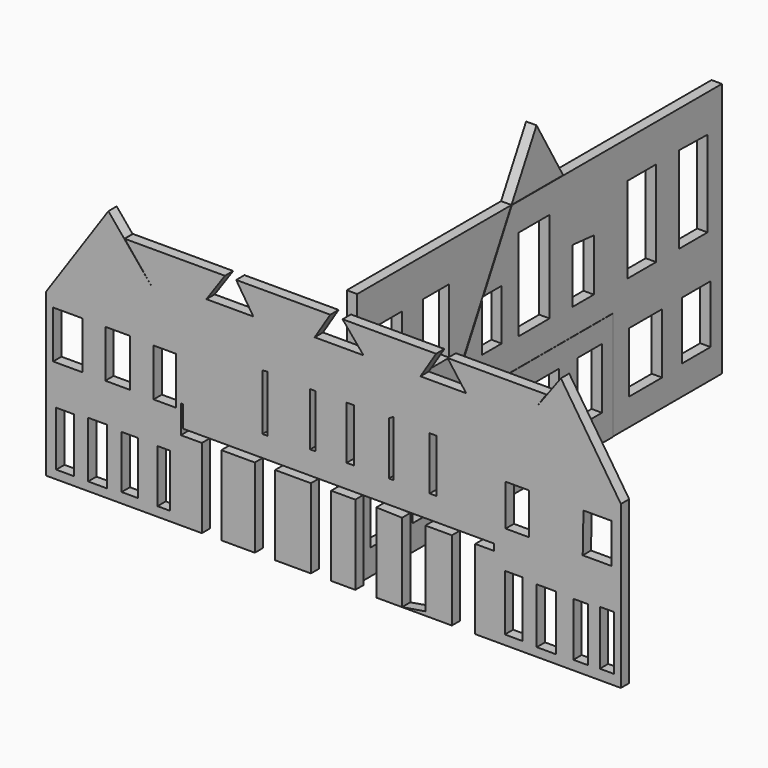
from build123d import *

# Parameters (mm, degrees)
F0_W     = 2.6429742575
F0_H     = 25.9491875768
F0_W_2   = 3.604053054
F0_W_3   = 3.3637844026
F4_DEPTH = 5.08
F3_W     = 11.0388994217
F3_H     = 23.2197735459
F3_W_2   = 14.4647806883
F3_W_3   = 12.1808722615
F3_W_4   = 8.7549835443
F3_H_2   = 26.6456417739
F3_W_5   = 9.1356486082
F3_H_3   = 27.4069467559
F3_W_6   = 7.9936981201
F3_H_4   = 25.884333998
F3_W_7   = 6.0904324055
F3_H_5   = 25.8843358606
F3_W_8   = 8.7549909949
F3_H_6   = 27.4069448933
F3_W_9   = 9.5162987709
F3_H_7   = 27.026292868
F3_W_10  = 7.2323828936
F3_H_8   = 26.264987886
F3_W_11  = 6.8517327309
F3_H_9   = 26.64563898
F3_W_12  = 10.2775990963
F3_H_10  = 38.8265051879
F3_W_13  = 11.419557035
F3_H_11  = 20.1745573431
F5_DEPTH = 5.08
F3_W_14  = 16.3680352271
F3_W_15  = 17.5099922344
F3_W_16  = 11.8002106901
F1_W     = 16.659591347
F1_H     = 31.6532291472
F1_W_2   = 16.1042734981
F6_DEPTH = 5.08
F1_W_3   = 14.9936303496
F1_H_2   = 29.6524465084
F1_W_4   = 16.6596025229
F1_W_5   = 14.9936378002
F2_W     = 13.5271744803
F2_H     = 27.4199559353
F2_W_2   = 17.5487734377
F2_W_3   = 19.011169672
F2_H_2   = 44.6031261235
F2_W_4   = 17.5487697124
F2_H_3   = 42.0439299196


with BuildPart() as f4:
    # F0 (on Front) → F4 (new body)
    with BuildSketch(Plane.XZ):
        Polygon((77.212639153, 0), (77.212639153, 37.3166874051), (101.6038423999, 72.4400269466), (53.3024363495, 72.4400269466), (62.3872019351, 60.2422244847), (40.0568917394, 60.2422244847), (47.6763012129, 72.4400269466), (1.9915847854, 72.4400269466), (12.2204730287, 60.2422244847), (-11.6393119097, 60.2422244847), (-4.0199024362, 72.4400269466), (-50.0156208355, 72.4400269466), (-41.6169911623, 59.4227127731), (-64.5590946078, 59.4227127731), (-55.5192948656, 72.4400269466), (-104.5110588974, 72.4400269466), (-75.8920386434, 37.3166874051), (-75.8920386434, 0), align=None)
        Polygon((-37.1389165521, 10.3316213936), (-37.1389165521, 37.7224311233), (-34.7362160683, 37.9627011716), (-34.7362160683, 10.3316213936), align=None, mode=Mode.SUBTRACT)
        with Locations((-12.5112151727, 24.2672972381)):
            Rectangle(F0_W, F0_H, mode=Mode.SUBTRACT)
        with Locations((5.7493259665, 24.2672972381)):
            Rectangle(F0_W_2, F0_H, mode=Mode.SUBTRACT)
        Polygon((24.6105398983, 11.2927034497), (24.6105398983, 37.2418910265), (26.772974059, 38.4432449937), (26.772974059, 11.2927034497), align=None, mode=Mode.SUBTRACT)
        with Locations((46.2348666042, 24.2672972381)):
            Rectangle(F0_W_3, F0_H, mode=Mode.SUBTRACT)
    extrude(amount=F4_DEPTH)

    # F3 (on Front) → F5 (join)
    with BuildSketch(Plane.XZ):
        Polygon((-112.4645769596, 81.7295238376), (-142.916738987, 37.1932424605), (-75.5413398147, 37.1932424605), (-104.8908060116, 72.5941494742), align=None)
        Polygon((-142.916738987, 0), (-77.0639330149, 0), (-77.0639330149, 10.5475988239), (-57.2700314224, 10.5475988239), (-57.2700314224, 37.1932424605), (-75.5413398147, 37.1932424605), (-142.916738987, 37.1932424605), align=None)
        with Locations((-84.8673060536, 19.4929214194)):
            Rectangle(F3_W, F3_H, mode=Mode.SUBTRACT)
        with Locations((-132.2584822774, 19.8735734448)):
            Rectangle(F3_W_2, F3_H, mode=Mode.SUBTRACT)
        with Locations((-107.8967563808, 19.8735734448)):
            Rectangle(F3_W_3, F3_H, mode=Mode.SUBTRACT)
        Polygon((-77.0639330149, -3.1558736227), (-77.0639330149, 0), (-142.916738987, 0), (-142.916738987, -41.9823788106), (-77.0639330149, -41.9823788106), align=None)
        with Locations((-133.5907652974, -24.4723875076)):
            Rectangle(F3_W_4, F3_H_2, mode=Mode.SUBTRACT)
        with Locations((-117.7937090397, -24.0917350166)):
            Rectangle(F3_W_5, F3_H_3, mode=Mode.SUBTRACT)
        with Locations((-101.996652782, -24.0917336196)):
            Rectangle(F3_W_6, F3_H_4, mode=Mode.SUBTRACT)
        with Locations((-85.4382812977, -24.4723865762)):
            Rectangle(F3_W_7, F3_H_5, mode=Mode.SUBTRACT)
        Polygon((138.0044519901, 37.1932424605), (108.6942479014, 81.7295238376), (101.9793557371, 72.5941494742), (75.9581699967, 37.1932424605), align=None)
        Polygon((138.0044519901, -41.9823788106), (138.0044519901, 0), (75.9581699967, 0), (75.9581699967, -3.1558736227), (75.9581699967, -41.9823788106), align=None)
        with Locations((85.6647975743, -23.7110820599)):
            Rectangle(F3_W_8, F3_H_6, mode=Mode.SUBTRACT)
        with Locations((101.6521826386, -24.2820619605)):
            Rectangle(F3_W_9, F3_H_7, mode=Mode.SUBTRACT)
        with Locations((118.4008717537, -24.2820605636)):
            Rectangle(F3_W_10, F3_H_8, mode=Mode.SUBTRACT)
        with Locations((131.1527192593, -23.7110811286)):
            Rectangle(F3_W_11, F3_H_9, mode=Mode.SUBTRACT)
        with Locations((-71.9251334667, -22.5691262167)):
            Rectangle(F3_W_12, F3_H_10)
        with Locations((71.3903456926, -22.5691262167)):
            Rectangle(F3_W_5, F3_H_10)
        Polygon((138.0044519901, 0), (138.0044519901, 37.1932424605), (75.9581699967, 37.1932424605), (75.9581699967, 10.5475988239), (75.9581699967, 0), align=None)
        with Locations((87.377730757, 18.3509653434)):
            Rectangle(F3_W_13, F3_H_11, mode=Mode.SUBTRACT)
        Polygon((119.352504611, 9.0249907225), (119.7331547737, 28.438244015), (133.4366202354, 28.438244015), (133.4366202354, 9.0249907225), align=None, mode=Mode.SUBTRACT)
    extrude(amount=F5_DEPTH)


with BuildPart() as f5:
    # F3 (on Front) → F5, piece 2 (new body)
    with BuildSketch(Plane.XZ):
        with Locations((-49.0860138088, -22.5691262167)):
            Rectangle(F3_W_14, F3_H_10)
    extrude(amount=F5_DEPTH)


with BuildPart() as f5b:
    # F3 (on Front) → F5, piece 3 (new body)
    with BuildSketch(Plane.XZ):
        with Locations((-22.2500474192, -22.5691262167)):
            Rectangle(F3_W_15, F3_H_10)
    extrude(amount=F5_DEPTH)


with BuildPart() as f5c:
    # F3 (on Front) → F5, piece 4 (new body)
    with BuildSketch(Plane.XZ):
        Polygon((18.4797160327, -41.9823788106), (31.041232869, -41.9823788106), (31.041232869, -3.5365254153), (18.4797160327, -3.1558736227), align=None)
    extrude(amount=F5_DEPTH)

    # F3 (on Front) → F5, piece 5 (join)
    with BuildSketch(Plane.XZ):
        Polygon((31.041232869, -41.9823788106), (55.4029606283, -41.9823788106), (55.4029606283, -3.1558736227), (42.4607954919, -3.1558736227), (42.4607954919, -40.0791205466), align=None)
    extrude(amount=F5_DEPTH)


with BuildPart() as f5d:
    # F3 (on Front) → F5, piece 6 (new body)
    with BuildSketch(Plane.XZ):
        with Locations((2.3020060034, -22.5691262167)):
            Rectangle(F3_W_16, F3_H_10)
    extrude(amount=F5_DEPTH)


with BuildPart() as f6:
    # F1 (on Right) → F6 (new body)
    with BuildSketch(Plane.YZ):
        Polygon((55.54414168, 82.220107317), (0, 82.220107317), (0, 10.3305839002), (65.6721889973, 10.3305839002), (65.6721889973, 29.766779393), (76.5488488376, 49.7302767479), (94.2501979091, 82.220107317), align=None)
        with Locations((19.0253145993, 47.8146728128)):
            Rectangle(F1_W, F1_H, mode=Mode.SUBTRACT)
        with Locations((48.1796078384, 47.8146728128)):
            Rectangle(F1_W_2, F1_H, mode=Mode.SUBTRACT)
    extrude(amount=F6_DEPTH)


with BuildPart() as f6b:
    # F1 (on Right) → F6, piece 2 (new body)
    with BuildSketch(Plane.YZ):
        Polygon((109.5424443483, 110.2881655097), (94.2501979091, 82.220107317), (125.8025629679, 82.220107317), align=None)
    extrude(amount=F6_DEPTH)


with BuildPart() as f6c:
    # F1 (on Right) → F6, piece 3 (new body)
    with BuildSketch(Plane.YZ):
        Polygon((156.1893224716, 10.3305839002), (65.6721889973, 10.3305839002), (65.6721889973, -42.7721068263), (141.7978554964, -42.7721068263), (156.1893224716, -42.7721068263), align=None)
        with Locations((84.8307199776, -14.8262232542)):
            Rectangle(F1_W_3, F1_H_2, mode=Mode.SUBTRACT)
        with Locations((115.0956526399, -14.8262232542)):
            Rectangle(F1_W_4, F1_H_2, mode=Mode.SUBTRACT)
        with Locations((142.0286744833, -14.8262232542)):
            Rectangle(F1_W_5, F1_H_2, mode=Mode.SUBTRACT)
    extrude(amount=F6_DEPTH)


with BuildPart() as f6d:
    # F2 (on Right) → F6, piece 4 (new body)
    with BuildSketch(Plane.YZ):
        Polygon((65.9739151597, 0), (65.9739151597, 10.407788679), (0, 10.407788679), (0, -42.6041260362), (65.9739151597, -42.6041260362), align=None)
        with Locations((14.9727999233, -16.4637670387)):
            Rectangle(F2_W, F2_H, mode=Mode.SUBTRACT)
        with Locations((42.5755549222, -16.4637670387)):
            Rectangle(F2_W_2, F2_H, mode=Mode.SUBTRACT)
    extrude(amount=F6_DEPTH)


with BuildPart() as f6e:
    # F2 (on Right) → F6, piece 5 (new body)
    with BuildSketch(Plane.YZ):
        Polygon((125.4289096646, 82.065269351), (94.4507836761, 82.065269351), (77.0482542035, 49.8925261199), (88.2754772902, 49.8925261199), (88.2754772902, 25.0317659229), (76.2106999755, 25.0317659229), (76.2106999755, 48.3441065548), (65.9739151597, 29.418958351), (65.9739151597, 10.407788679), (156.2769711018, 10.407788679), (156.2769711018, 28.322160244), (144.5777863264, 48.7043345056), align=None)
        with Locations((108.0178469419, 46.236529015)):
            Rectangle(F2_W_3, F2_H_2, mode=Mode.SUBTRACT)
        Polygon((131.4162015915, 49.8925261199), (144.5777863264, 48.7043345056), (144.5777863264, 23.2037678361), (131.4162015915, 23.2037678361), align=None, mode=Mode.SUBTRACT)
        Polygon((222.8160500526, 82.065269351), (125.4289096646, 82.065269351), (144.5777863264, 48.7043345056), (156.2769711018, 28.322160244), (156.2769711018, 10.407788679), (222.8160500526, 10.407788679), align=None)
        with Locations((173.8257408142, 42.763334699)):
            Rectangle(F2_W_4, F2_H_3, mode=Mode.SUBTRACT)
        Polygon((196.4929103851, 64.1508996487), (214.0416651964, 63.7852996588), (214.0416651964, 21.7413697392), (196.4929103851, 21.7413697392), align=None, mode=Mode.SUBTRACT)
        Polygon((222.8160500526, 0), (222.8160500526, 10.407788679), (156.2769711018, 10.407788679), (156.2769711018, 0), (166.1481559277, 0), (186.2561255693, 0), (198.3208954334, 0), (215.8696651459, 0), align=None)
        Polygon((222.8160500526, -42.6041260362), (222.8160500526, 0), (215.8696651459, 0), (215.8696651459, -28.3457469195), (198.3208954334, -28.3457469195), (198.3208954334, 0), (186.2561255693, 0), (186.2561255693, -29.4425468892), (166.1481559277, -29.4425468892), (166.1481559277, 0), (156.2769711018, 0), (156.2769711018, -42.6041260362), align=None)
    extrude(amount=F6_DEPTH)


solid = Compound([f4.part, f5.part, f5b.part, f5c.part, f5d.part, f6.part, f6b.part, f6c.part, f6d.part, f6e.part])
